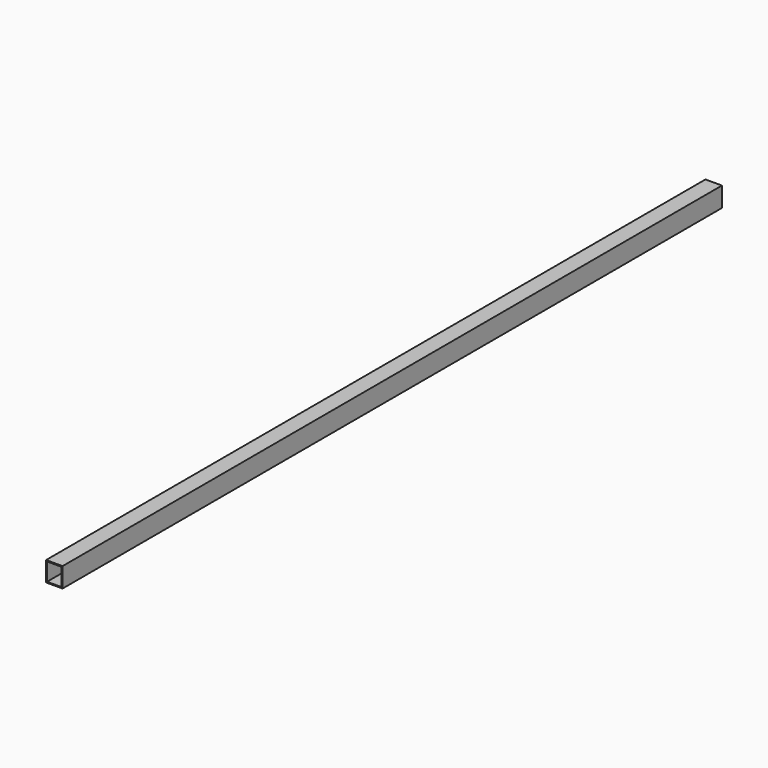
from build123d import *

# Parameters (mm, degrees)
SKETCH_W   = 50
SKETCH_H   = 60
SKETCH_W_2 = 44
SKETCH_H_2 = 54
PAD_DEPTH  = 2500


with BuildPart() as part:
    # Sketch → Pad (new body)
    with BuildSketch(Plane.XZ):
        with Locations((25, 30)):
            Rectangle(SKETCH_W, SKETCH_H)
        with Locations((25, 30)):
            Rectangle(SKETCH_W_2, SKETCH_H_2, mode=Mode.SUBTRACT)
    extrude(amount=PAD_DEPTH)


solid = part.part
